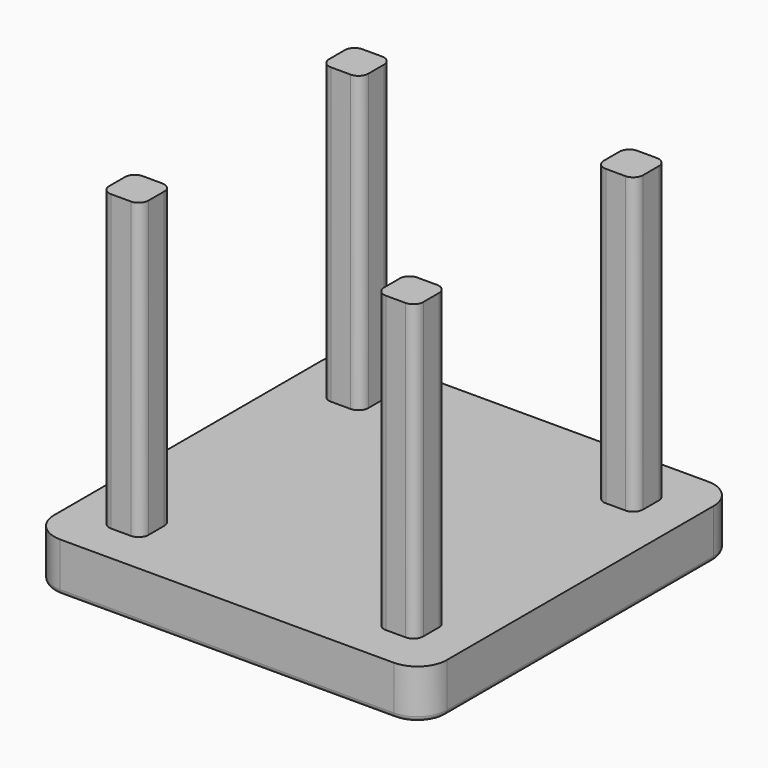
from build123d import *

# Parameters (mm, degrees)
F1_DEPTH = 50
F3_DEPTH = 350
F4_R     = 5


with BuildPart() as f1:
    # F0 (on Top) → F1 (new body)
    with BuildSketch(Plane.XY):
        with BuildLine():
            Line((153.906826, 208.065538), (-186.093174, 208.065538))
            ThreePointArc((-186.093174, 208.065538), (-207.306378, 199.278742), (-216.093174, 178.065538))
            Line((-216.093174, 178.065538), (-216.093174, -161.934462))
            ThreePointArc((-216.093174, -161.934462), (-207.306378, -183.147665), (-186.093174, -191.934462))
            Line((-186.093174, -191.934462), (153.906826, -191.934462))
            ThreePointArc((153.906826, -191.934462), (175.120029, -183.147665), (183.906826, -161.934462))
            Line((183.906826, -161.934462), (183.906826, 178.065538))
            ThreePointArc((183.906826, 178.065538), (175.120029, 199.278742), (153.906826, 208.065538))
        make_face()
    extrude(amount=F1_DEPTH)

    # F2 (on Top) → F3 (join)
    with BuildSketch(Plane.XY):
        with BuildLine():
            Line((113.906826, -151.934462), (133.906826, -151.934462))
            ThreePointArc((133.906826, -151.934462), (140.977893, -149.005529), (143.906826, -141.934462))
            Line((143.906826, -141.934462), (143.906826, -121.934462))
            ThreePointArc((143.906826, -121.934462), (140.977893, -114.863394), (133.906826, -111.934462))
            Line((133.906826, -111.934462), (113.906826, -111.934462))
            ThreePointArc((113.906826, -111.934462), (106.835758, -114.863394), (103.906826, -121.934462))
            Line((103.906826, -121.934462), (103.906826, -141.934462))
            ThreePointArc((103.906826, -141.934462), (106.835758, -149.005529), (113.906826, -151.934462))
        make_face()
        with BuildLine():
            Line((113.906826, 128.065538), (133.906826, 128.065538))
            ThreePointArc((133.906826, 128.065538), (140.977893, 130.994471), (143.906826, 138.065538))
            Line((143.906826, 138.065538), (143.906826, 158.065538))
            ThreePointArc((143.906826, 158.065538), (140.977893, 165.136606), (133.906826, 168.065538))
            Line((133.906826, 168.065538), (113.906826, 168.065538))
            ThreePointArc((113.906826, 168.065538), (106.835758, 165.136606), (103.906826, 158.065538))
            Line((103.906826, 158.065538), (103.906826, 138.065538))
            ThreePointArc((103.906826, 138.065538), (106.835758, 130.994471), (113.906826, 128.065538))
        make_face()
        with BuildLine():
            Line((-166.093174, 128.065538), (-146.093174, 128.065538))
            ThreePointArc((-146.093174, 128.065538), (-139.022107, 130.994471), (-136.093174, 138.065538))
            Line((-136.093174, 138.065538), (-136.093174, 158.065538))
            ThreePointArc((-136.093174, 158.065538), (-139.022107, 165.136606), (-146.093174, 168.065538))
            Line((-146.093174, 168.065538), (-166.093174, 168.065538))
            ThreePointArc((-166.093174, 168.065538), (-173.164242, 165.136606), (-176.093174, 158.065538))
            Line((-176.093174, 158.065538), (-176.093174, 138.065538))
            ThreePointArc((-176.093174, 138.065538), (-173.164242, 130.994471), (-166.093174, 128.065538))
        make_face()
        with BuildLine():
            Line((-166.093174, -151.934462), (-146.093174, -151.934462))
            ThreePointArc((-146.093174, -151.934462), (-139.022107, -149.005529), (-136.093174, -141.934462))
            Line((-136.093174, -141.934462), (-136.093174, -121.934462))
            ThreePointArc((-136.093174, -121.934462), (-139.022107, -114.863394), (-146.093174, -111.934462))
            Line((-146.093174, -111.934462), (-166.093174, -111.934462))
            ThreePointArc((-166.093174, -111.934462), (-173.164242, -114.863394), (-176.093174, -121.934462))
            Line((-176.093174, -121.934462), (-176.093174, -141.934462))
            ThreePointArc((-176.093174, -141.934462), (-173.164242, -149.005529), (-166.093174, -151.934462))
        make_face()
    extrude(amount=F3_DEPTH)

    # F4
    f4_edges = [f1.edges().sort_by_distance(p)[0] for p in [
        (-16.093174, 208.065538, 0),
    ]]
    fillet(f4_edges, radius=F4_R)


solid = f1.part
